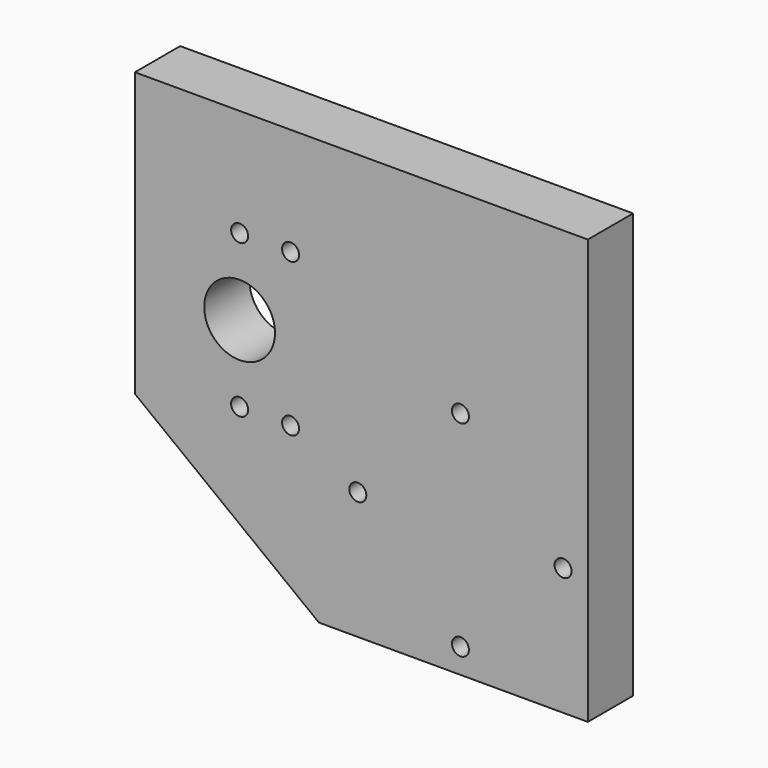
from build123d import *

# Parameters (mm, degrees)
F0_R     = 18
F0_R_2   = 3
F0_W     = 3
F0_H     = 17
F0_H_2   = 27
F0_R_3   = 12.5
F1_DEPTH = 20
F2_DEPTH = 25
F3_R     = 3
F4_DEPTH = 25
F5_R     = 5.5
F6_DEPTH = 6


with BuildPart() as f1:
    # F0 (on Front) → F1 (new body)
    with BuildSketch(Plane.XZ):
        Polygon((60, 50), (60, 0), (155, 0), (155, 90), (63, 90), (63, 63), (60, 63), align=None)
        Polygon((1, 63), (60, 63), (60, 90), (60, 107), (1, 107), align=None)
        with Locations((32, 85)):
            Circle(F0_R, mode=Mode.SUBTRACT)
        Polygon((-5, 50), (60, 50), (60, 63), (1, 63), (1, 107), (60, 107), (60, 120), (-5, 120), align=None)
        with Locations((32, 58)):
            Circle(F0_R_2, mode=Mode.SUBTRACT)
        with Locations((50, 58)):
            Circle(F0_R_2, mode=Mode.SUBTRACT)
        with Locations((32, 112)):
            Circle(F0_R_2, mode=Mode.SUBTRACT)
        with Locations((50, 112)):
            Circle(F0_R_2, mode=Mode.SUBTRACT)
        Polygon((63, 90), (155, 90), (155, 150), (-5, 150), (-5, 120), (60, 120), (60, 107), (63, 107), align=None)
        with Locations((61.5, 98.5)):
            Rectangle(F0_W, F0_H)
        with Locations((61.5, 76.5)):
            Rectangle(F0_W, F0_H_2)
        with Locations((32, 85)):
            Circle(F0_R_3)
        with Locations((32, 85)):
            Circle(F0_R)
        with Locations((32, 85)):
            Circle(F0_R_3, mode=Mode.SUBTRACT)
        Polygon((-5, 50), (60, 0), (60, 50), align=None)
    extrude(amount=F1_DEPTH)

    # F0 (on Front) → F2 (cut)
    with BuildSketch(Plane.XZ):
        with Locations((32, 85)):
            Circle(F0_R_3)
    extrude(amount=F2_DEPTH, mode=Mode.SUBTRACT)

    # F3 (on face) → F4 (cut)
    with BuildSketch(Plane.XZ.offset(20)):
        with Locations((110, 81.25)):
            Circle(F3_R)
        with Locations((146.25, 45)):
            Circle(F3_R)
        with Locations((73.75, 45)):
            Circle(F3_R)
        with Locations((110, 8.75)):
            Circle(F3_R)
    extrude(amount=-F4_DEPTH, mode=Mode.SUBTRACT)

    # F5 (on face) → F6 (cut)
    with BuildSketch(Plane(origin=(0, 0, 0), x_dir=(-1, 0, 0), z_dir=(0, 1, 0))):
        with Locations((-146.25, 45)):
            Circle(F5_R)
        with Locations((-110, 81.25)):
            Circle(F5_R)
        with Locations((-73.75, 45)):
            Circle(F5_R)
        with Locations((-110, 8.75)):
            Circle(F5_R)
    extrude(amount=-F6_DEPTH, mode=Mode.SUBTRACT)


solid = f1.part
